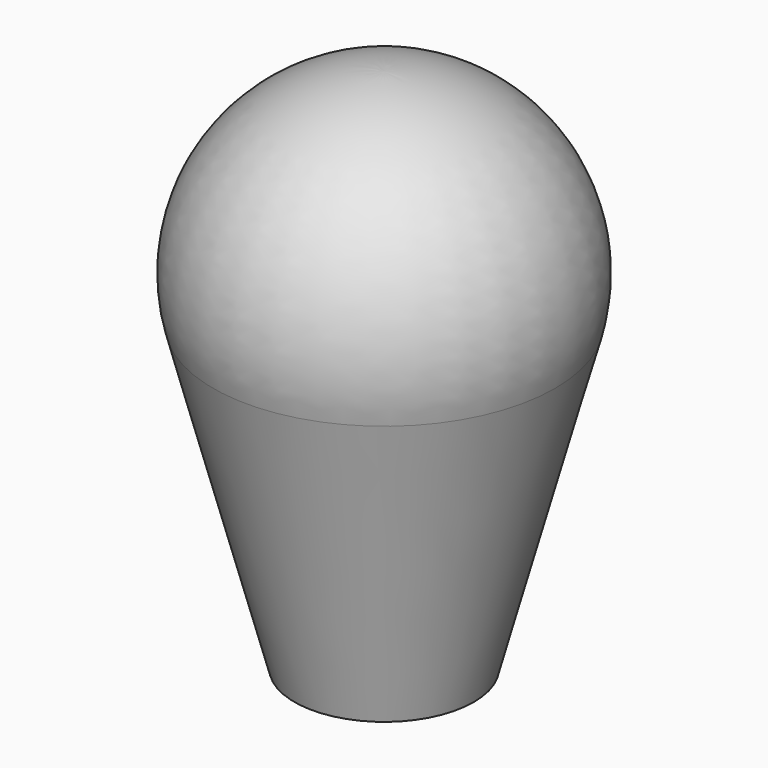
from build123d import *

# Parameters (mm, degrees)
F1_DEPTH = 6.985


with BuildPart() as f1:
    # F0 (on Front) → F1 (new body, symmetric)
    with BuildSketch(Plane.XZ):
        Polygon((2.4, 0), (0, 0), (-2.4, 0), (-2.4, -5.88), (0, -5.88), (2.4, -5.88), align=None)
        with BuildLine():
            ThreePointArc((-2.4, -5.88), (0, -8.28), (2.4, -5.88))
            Line((2.4, -5.88), (0, -5.88))
            Line((0, -5.88), (-2.4, -5.88))
        make_face()
    extrude(amount=F1_DEPTH, both=True)

    # F0 (on Front) → F2 (revolve)
    with BuildSketch(Plane.XZ):
        with BuildLine():
            Line((0, 15.015077), (0, 0))
            Line((0, 0), (2.4, 0))
            Line((2.4, 0), (7.1, 0))
            Line((7.1, 0), (7.1, -38.74))
            Line((7.1, -38.74), (7.64, -38.74))
            Line((7.64, -38.74), (7.64, -43.191675))
            Line((7.64, -43.191675), (7.64, -44.14))
            Line((7.64, -44.14), (7.64, -45.09))
            Line((7.64, -45.09), (7.64, -47))
            Line((7.64, -47), (10.58, -47))
            Line((10.58, -47), (20.178267, -11.306025))
            ThreePointArc((20.178267, -11.306025), (16.582844, 6.83273), (0, 15.015077))
        make_face()
        with BuildLine():
            Line((7.64, -44.14), (7.64, -43.191675))
            ThreePointArc((7.64, -43.191675), (7.416911, -43.642716), (7.34, -44.14))
            Line((7.34, -44.14), (7.64, -44.14))
        make_face()
        with BuildLine():
            ThreePointArc((7.34, -44.14), (7.416659, -44.63816), (7.64, -45.09))
            Line((7.64, -45.09), (7.64, -44.14))
            Line((7.64, -44.14), (7.34, -44.14))
        make_face()
    revolve(axis=Axis((0, 0, 7.507538), (0, 0, -1)))


solid = f1.part
